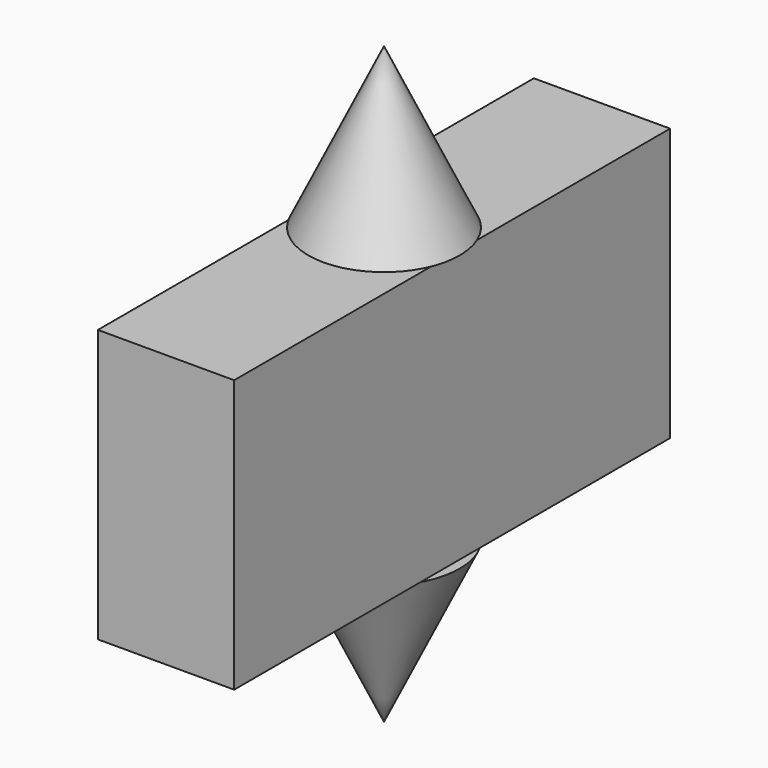
from build123d import *

# Parameters (mm, degrees)
F0_W     = 200
F0_H     = 100
F1_DEPTH = 25


with BuildPart() as f1:
    # F0 (on Right) → F1 (new body, symmetric)
    with BuildSketch(Plane.YZ):
        Rectangle(F0_W, F0_H)
    extrude(amount=F1_DEPTH, both=True)


with BuildPart() as f3:
    # F2 (on Right) → F3 (revolve)
    with BuildSketch(Plane.YZ):
        Polygon((-27.806457, 50.607752), (0, 50.607752), (0, 109.186694), align=None)
    revolve(axis=Axis((0, 0, 79.897223), (0, 0, 1)))


with BuildPart() as f4_1:
    # F4: instance of F3
    add(f3.part.mirror(Plane.XY))


solid = Compound([f1.part, f3.part, f4_1.part])
